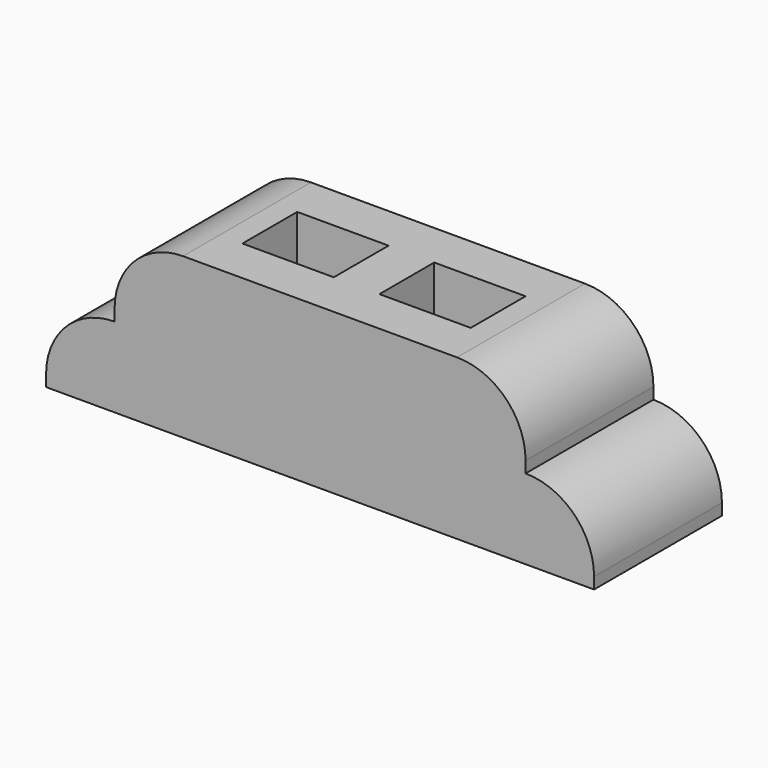
from build123d import *

# Parameters (mm, degrees)
F1_DEPTH = 88.9
F2_W     = 50.8
F2_H     = 38.1
F3_DEPTH = 88.901


with BuildPart() as f1:
    # F0 (on Front) → F1 (new body)
    with BuildSketch(Plane.XZ):
        with BuildLine():
            Line((-152.4, -44.45), (152.4, -44.45))
            Line((152.4, -44.45), (152.4, -38.1))
            ThreePointArc((152.4, -38.1), (141.240768, -11.159232), (114.3, 0))
            Line((114.3, 0), (114.3, 6.35))
            ThreePointArc((114.3, 6.35), (103.140768, 33.290768), (76.2, 44.45))
            Line((76.2, 44.45), (-76.2, 44.45))
            ThreePointArc((-76.2, 44.45), (-103.140768, 33.290768), (-114.3, 6.35))
            Line((-114.3, 6.35), (-114.3, 0))
            ThreePointArc((-114.3, 0), (-141.240768, -11.159232), (-152.4, -38.1))
            Line((-152.4, -38.1), (-152.4, -44.45))
        make_face()
    extrude(amount=F1_DEPTH)

    # F2 (on face) → F3 (cut, through all)
    with BuildSketch(Plane.XY.offset(44.45)):
        with Locations((-38.1, -44.45)):
            Rectangle(F2_W, F2_H)
        with Locations((38.1, -44.45)):
            Rectangle(F2_W, F2_H)
    extrude(amount=-F3_DEPTH, mode=Mode.SUBTRACT)


solid = f1.part
